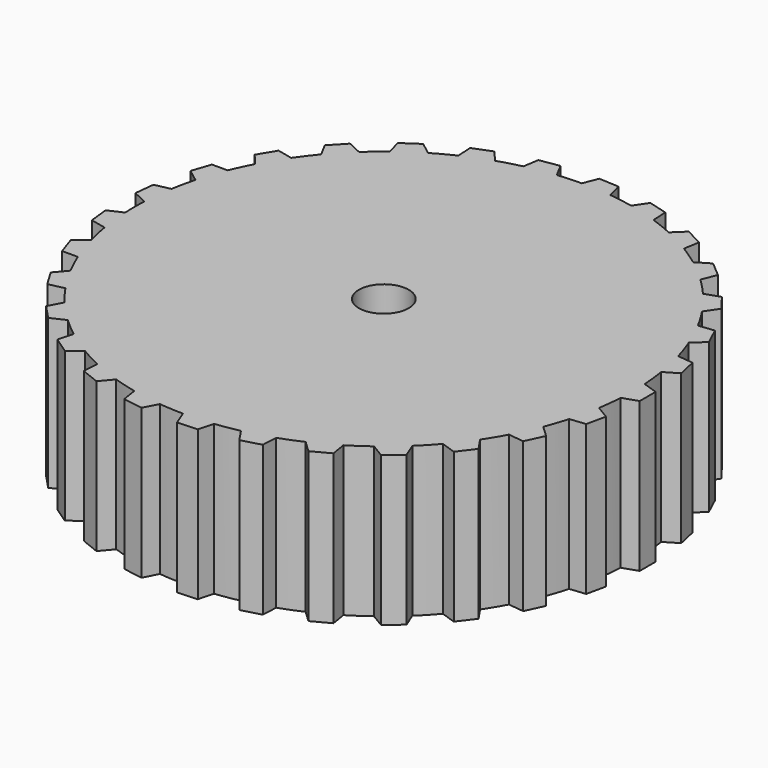
from build123d import *

# Parameters (mm, degrees)
F3_R      = 5
F4_DEPTH  = 3
F8_DEPTH  = 3
F9_COUNT  = 29
F10_R     = 0.5
F11_DEPTH = 3


with BuildPart() as f4:
    # F3 (on Top) → F4 (new body)
    with BuildSketch(Plane.XY):
        Circle(F3_R)
    extrude(amount=F4_DEPTH)

    # F5 (on face) → F8 (join)
    with BuildSketch(Plane.XY.offset(3)):
        Polygon((5.2909918854, -0.2), (5.2909918854, 0.2), (4.9909918854, 0.3), (4.8909918854, 0.3), (4.8909918854, -0.3), (4.9909918854, -0.3), align=None)
    extrude(amount=-F8_DEPTH)

    # F9: F4 ×29 about axis
    f9_axis = Axis((0, 0, 0), (0, 0, -1))


with BuildPart() as f4_1:
    add(f4.part)
    for i in range(1, F9_COUNT):
        add(f4.part.rotate(f9_axis, i * 360 / F9_COUNT))

    # F10 (on face) → F11 (cut, through all)
    with BuildSketch(Plane(origin=(0, 0, 0), x_dir=(1, 0, 0), z_dir=(0, 0, -1))):
        Circle(F10_R)
    extrude(amount=-F11_DEPTH, mode=Mode.SUBTRACT)


solid = f4_1.part
